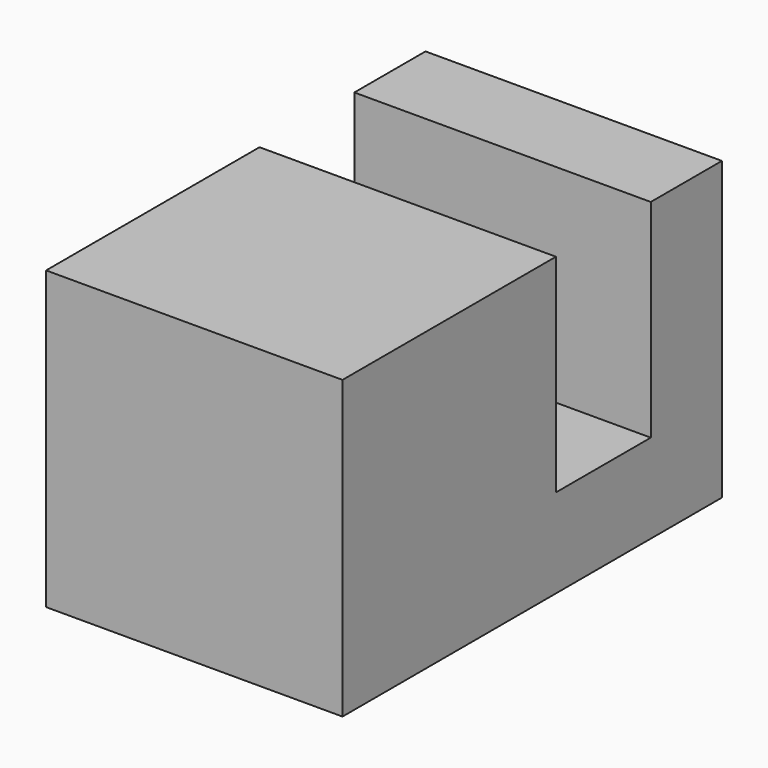
from build123d import *

# Parameters (mm, degrees)
BOX003_W     = 10
BOX003_H     = 7
BOX003_DEPTH = 3
BOX004_W     = 10
BOX004_H     = 3
BOX004_DEPTH = 10
BOX005_W     = 10
BOX005_H     = 9
BOX005_DEPTH = 10


with BuildPart() as cube003:
    # Box003 → Box003 (new body)
    with BuildSketch(Plane.XY):
        with Locations((5, 3.5)):
            Rectangle(BOX003_W, BOX003_H)
    extrude(amount=BOX003_DEPTH)


with BuildPart() as cube004:
    # Box004 → Box004 (new body)
    with BuildSketch(Plane(origin=(0, 4, 0), x_dir=(1, 0, 0), z_dir=(0, 0, 1))):
        with Locations((5, 1.5)):
            Rectangle(BOX004_W, BOX004_H)
    extrude(amount=BOX004_DEPTH)


with BuildPart() as fusion001:
    # Box005 → Box005 (new body)
    with BuildSketch(Plane(origin=(0, -9, 0), x_dir=(1, 0, 0), z_dir=(0, 0, 1))):
        with Locations((5, 4.5)):
            Rectangle(BOX005_W, BOX005_H)
    extrude(amount=BOX005_DEPTH)

    # Fusion001: union Cube003, Cube004
    add(cube003.part)
    add(cube004.part)


solid = fusion001.part
